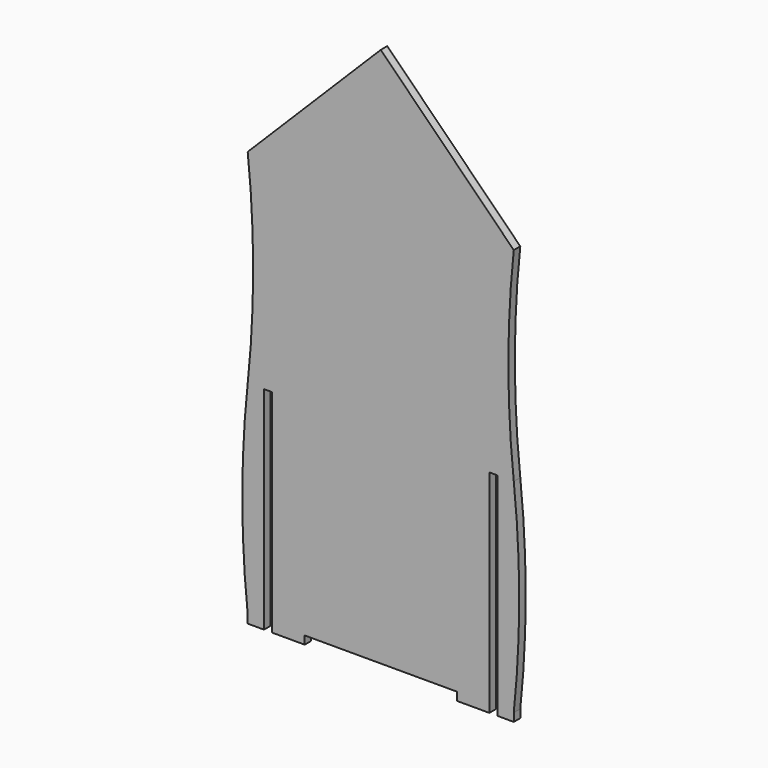
from build123d import *

# Parameters (mm, degrees)
F1_W     = 6
F1_H     = 3
F1_W_2   = 12
F2_DEPTH = 3


with BuildPart() as f2:
    # F1 (on Front) → F2 (new body)
    with BuildSketch(Plane.XZ):
        Polygon((-49, 75), (49, 75), (0, 124), align=None)
        with BuildLine():
            Line((43, -75), (49, -75))
            Line((49, -75), (49, 0))
            ThreePointArc((49, 0), (47, 37.5), (49, 75))
            Line((49, 75), (-49, 75))
            ThreePointArc((-49, 75), (-47, 37.5), (-49, 0))
            Line((-49, 0), (-49, -75))
            Line((-49, -75), (-43, -75))
            Line((-43, -75), (-43, 0))
            Line((-43, 0), (-40, 0))
            Line((-40, 0), (-40, -75))
            Line((-40, -75), (-28, -75))
            Line((-28, -75), (28, -75))
            Line((28, -75), (40, -75))
            Line((40, -75), (40, 0))
            Line((40, 0), (43, 0))
            Line((43, 0), (43, -75))
        make_face()
        with Locations((-46, -76.5)):
            Rectangle(F1_W, F1_H)
        with Locations((-34, -76.5)):
            Rectangle(F1_W_2, F1_H)
        with Locations((34, -76.5)):
            Rectangle(F1_W_2, F1_H)
        with Locations((46, -76.5)):
            Rectangle(F1_W, F1_H)
        with BuildLine():
            Line((-49, -75), (-49, 0))
            ThreePointArc((-49, 0), (-51, -37.5), (-49, -75))
        make_face()
        with BuildLine():
            Line((49, 0), (49, -75))
            ThreePointArc((49, -75), (51, -37.5), (49, 0))
        make_face()
    extrude(amount=F2_DEPTH)


solid = f2.part
